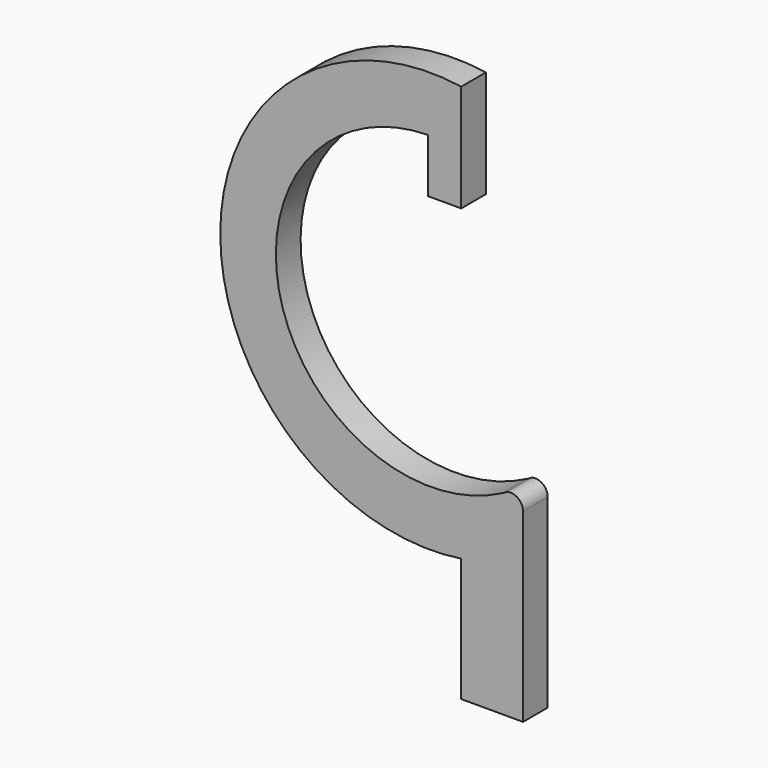
from build123d import *

# Parameters (mm, degrees)
F1_DEPTH = 5
F2_R     = 1.75
F3_DEPTH = 15


with BuildPart() as f1:
    # F0 (on Front) → F1 (new body)
    with BuildSketch(Plane.XZ):
        with BuildLine():
            Line((-33.626429, 38.435265), (-33.626429, 55.788139))
            ThreePointArc((-33.626429, 55.788139), (-72.626429, 22.157796), (-33.626429, -11.472548))
            Line((-33.626429, -11.472548), (-33.626429, -31.472548))
            Line((-33.626429, -31.472548), (-23.626429, -31.472548))
            Line((-23.626429, -31.472548), (-23.626429, -1.472548))
            ThreePointArc((-23.626429, -1.472548), (-24.407146, 0.126464), (-26.148149, 0.494246))
            ThreePointArc((-26.148149, 0.494246), (-26.595775, 0.242499), (-27.048478, 0))
            ThreePointArc((-27.048478, 0), (-62.860628, 16.016098), (-38.999107, 47.155355))
            Line((-38.999107, 47.155355), (-38.999107, 38.435265))
            Line((-38.999107, 38.435265), (-33.626429, 38.435265))
        make_face()
    extrude(amount=-F1_DEPTH)

    # F2 (on face) → F3 (cut)
    with BuildSketch(Plane(origin=(0, 0, -31.472548), x_dir=(1, 0, 0), z_dir=(0, 0, -1))):
        with Locations((-28.626429, -2.5)):
            Circle(F2_R)
    extrude(amount=-F3_DEPTH, mode=Mode.SUBTRACT)


solid = f1.part
